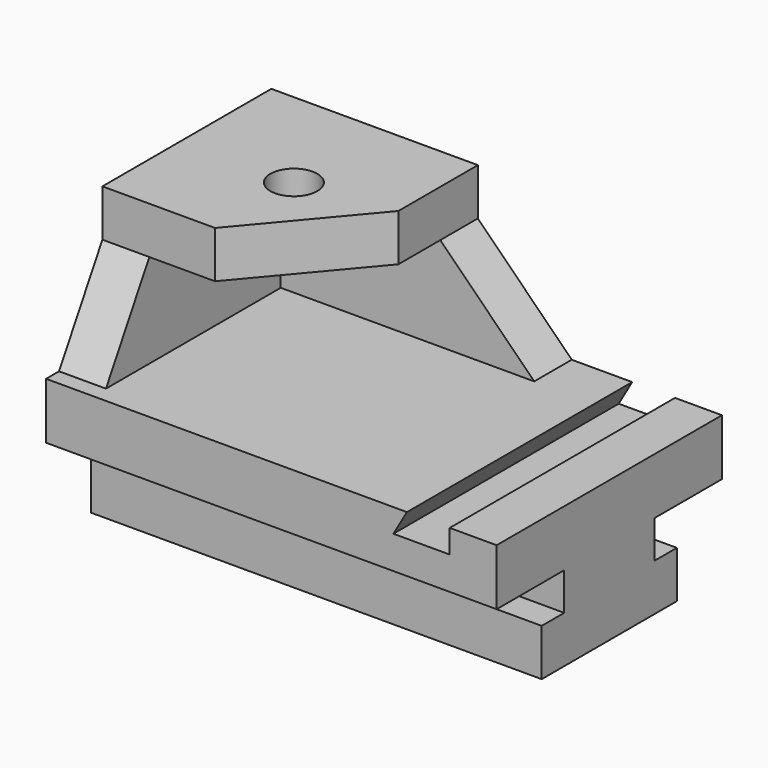
from build123d import *

# Parameters (mm, degrees)
PAD001_DEPTH = 10
PAD002_DEPTH = 10
SKETCH004_R  = 5
PAD003_DEPTH = 10
PAD_DEPTH    = 96
POCKET_DEPTH = 60.001


with BuildPart() as pad001:
    # Sketch002 → Pad001 (new body)
    with BuildSketch(Plane.YZ):
        Polygon((30, 30), (-26.547005, 30), (-15, 50), (30, 50), align=None)
    extrude(amount=PAD001_DEPTH)


with BuildPart() as pad003:
    # Sketch003 → Pad002 (new body)
    with BuildSketch(Plane.XZ.offset(-30)):
        Polygon((10, 50), (10, 30), (64, 30), (44, 50), align=None)
    extrude(amount=PAD002_DEPTH)

    # Sketch004 → Pad003 (new body)
    with BuildSketch(Plane(origin=(0, 30, 50), x_dir=(-1, 0, 0), z_dir=(0, 0, 1))):
        Polygon((0, 0), (0, 45), (-24, 45), (-44, 21.164928), (-44, 0), align=None)
        with Locations((-24, 24)):
            Circle(SKETCH004_R, mode=Mode.SUBTRACT)
    extrude(amount=PAD003_DEPTH)


with BuildPart() as fusion:
    # Sketch → Pad (new body)
    with BuildSketch(Plane.YZ):
        Polygon((-18, 0), (18, 0), (18, 10), (12, 10), (12, 18), (30, 18), (30, 30), (-30, 30), (-30, 18), (-12, 18), (-12, 10), (-18, 10), align=None)
    extrude(amount=PAD_DEPTH)

    # Sketch001 → Pocket (cut, through all)
    with BuildSketch(Plane(origin=(0, -30, 0), x_dir=(0, 0, -1), z_dir=(0, -1, 0))):
        Polygon((-33.660889, 86), (-25, 86), (-25, 74), (-33.660889, 79.000366), align=None)
    extrude(amount=-POCKET_DEPTH, mode=Mode.SUBTRACT)

    # Fusion: union Pad001, Pad003
    add(pad001.part)
    add(pad003.part)


solid = fusion.part
